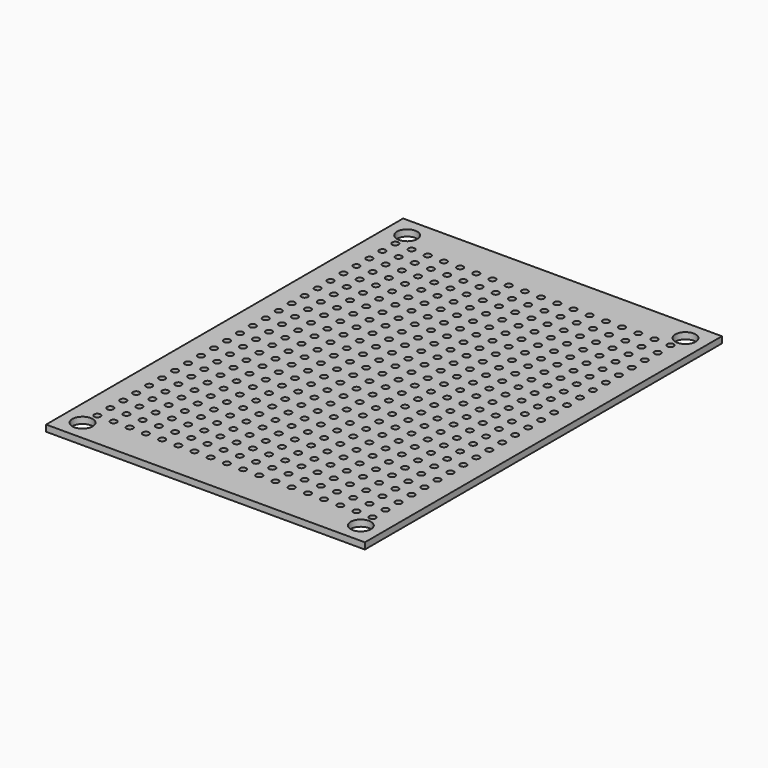
from build123d import *

# Parameters (mm, degrees)
F0_W     = 50
F0_H     = 70
F1_DEPTH = 1
F2_R     = 0.5
F3_DEPTH = 1
F4_R     = 1.5875
F5_DEPTH = 1


with BuildPart() as f1:
    # F0 (on Top) → F1 (new body)
    with BuildSketch(Plane.XY):
        Rectangle(F0_W, F0_H)
    extrude(amount=F1_DEPTH)

    # F2 (on face) → F3 (cut, through all)
    with BuildSketch(Plane.XY.offset(1)):
        with Locations((-21.59, 29.21)):
            Circle(F2_R)
        with Locations((-21.59, 26.67)):
            Circle(F2_R)
        with Locations((-21.59, 24.13)):
            Circle(F2_R)
        with Locations((-21.59, 21.59)):
            Circle(F2_R)
        with Locations((-21.59, 19.05)):
            Circle(F2_R)
        with Locations((-21.59, 16.51)):
            Circle(F2_R)
        with Locations((-21.59, 13.97)):
            Circle(F2_R)
        with Locations((-21.59, 11.43)):
            Circle(F2_R)
        with Locations((-21.59, 8.89)):
            Circle(F2_R)
        with Locations((-21.59, 6.35)):
            Circle(F2_R)
        with Locations((-21.59, 3.81)):
            Circle(F2_R)
        with Locations((-21.59, 1.27)):
            Circle(F2_R)
        with Locations((-21.59, -1.27)):
            Circle(F2_R)
        with Locations((-21.59, -3.81)):
            Circle(F2_R)
        with Locations((-21.59, -6.35)):
            Circle(F2_R)
        with Locations((-21.59, -8.89)):
            Circle(F2_R)
        with Locations((-21.59, -11.43)):
            Circle(F2_R)
        with Locations((-21.59, -13.97)):
            Circle(F2_R)
        with Locations((-21.59, -16.51)):
            Circle(F2_R)
        with Locations((-21.59, -19.05)):
            Circle(F2_R)
        with Locations((-21.59, -21.59)):
            Circle(F2_R)
        with Locations((-21.59, -24.13)):
            Circle(F2_R)
        with Locations((-21.59, -26.67)):
            Circle(F2_R)
        with Locations((-21.59, -29.21)):
            Circle(F2_R)
        with Locations((-19.05, 29.21)):
            Circle(F2_R)
        with Locations((-19.05, 26.67)):
            Circle(F2_R)
        with Locations((-19.05, 24.13)):
            Circle(F2_R)
        with Locations((-19.05, 21.59)):
            Circle(F2_R)
        with Locations((-19.05, 19.05)):
            Circle(F2_R)
        with Locations((-19.05, 16.51)):
            Circle(F2_R)
        with Locations((-19.05, 13.97)):
            Circle(F2_R)
        with Locations((-19.05, 11.43)):
            Circle(F2_R)
        with Locations((-19.05, 8.89)):
            Circle(F2_R)
        with Locations((-19.05, 6.35)):
            Circle(F2_R)
        with Locations((-19.05, 3.81)):
            Circle(F2_R)
        with Locations((-19.05, 1.27)):
            Circle(F2_R)
        with Locations((-19.05, -1.27)):
            Circle(F2_R)
        with Locations((-19.05, -3.81)):
            Circle(F2_R)
        with Locations((-19.05, -6.35)):
            Circle(F2_R)
        with Locations((-19.05, -8.89)):
            Circle(F2_R)
        with Locations((-19.05, -11.43)):
            Circle(F2_R)
        with Locations((-19.05, -13.97)):
            Circle(F2_R)
        with Locations((-19.05, -16.51)):
            Circle(F2_R)
        with Locations((-19.05, -19.05)):
            Circle(F2_R)
        with Locations((-19.05, -21.59)):
            Circle(F2_R)
        with Locations((-19.05, -24.13)):
            Circle(F2_R)
        with Locations((-19.05, -26.67)):
            Circle(F2_R)
        with Locations((-19.05, -29.21)):
            Circle(F2_R)
        with Locations((-16.51, 29.21)):
            Circle(F2_R)
        with Locations((-16.51, 26.67)):
            Circle(F2_R)
        with Locations((-16.51, 24.13)):
            Circle(F2_R)
        with Locations((-16.51, 21.59)):
            Circle(F2_R)
        with Locations((-16.51, 19.05)):
            Circle(F2_R)
        with Locations((-16.51, 16.51)):
            Circle(F2_R)
        with Locations((-16.51, 13.97)):
            Circle(F2_R)
        with Locations((-16.51, 11.43)):
            Circle(F2_R)
        with Locations((-16.51, 8.89)):
            Circle(F2_R)
        with Locations((-16.51, 6.35)):
            Circle(F2_R)
        with Locations((-16.51, 3.81)):
            Circle(F2_R)
        with Locations((-16.51, 1.27)):
            Circle(F2_R)
        with Locations((-16.51, -1.27)):
            Circle(F2_R)
        with Locations((-16.51, -3.81)):
            Circle(F2_R)
        with Locations((-16.51, -6.35)):
            Circle(F2_R)
        with Locations((-16.51, -8.89)):
            Circle(F2_R)
        with Locations((-16.51, -11.43)):
            Circle(F2_R)
        with Locations((-16.51, -13.97)):
            Circle(F2_R)
        with Locations((-16.51, -16.51)):
            Circle(F2_R)
        with Locations((-16.51, -19.05)):
            Circle(F2_R)
        with Locations((-16.51, -21.59)):
            Circle(F2_R)
        with Locations((-16.51, -24.13)):
            Circle(F2_R)
        with Locations((-16.51, -26.67)):
            Circle(F2_R)
        with Locations((-16.51, -29.21)):
            Circle(F2_R)
        with Locations((-13.97, 29.21)):
            Circle(F2_R)
        with Locations((-13.97, 26.67)):
            Circle(F2_R)
        with Locations((-13.97, 24.13)):
            Circle(F2_R)
        with Locations((-13.97, 21.59)):
            Circle(F2_R)
        with Locations((-13.97, 19.05)):
            Circle(F2_R)
        with Locations((-13.97, 16.51)):
            Circle(F2_R)
        with Locations((-13.97, 13.97)):
            Circle(F2_R)
        with Locations((-13.97, 11.43)):
            Circle(F2_R)
        with Locations((-13.97, 8.89)):
            Circle(F2_R)
        with Locations((-13.97, 6.35)):
            Circle(F2_R)
        with Locations((-13.97, 3.81)):
            Circle(F2_R)
        with Locations((-13.97, 1.27)):
            Circle(F2_R)
        with Locations((-13.97, -1.27)):
            Circle(F2_R)
        with Locations((-13.97, -3.81)):
            Circle(F2_R)
        with Locations((-13.97, -6.35)):
            Circle(F2_R)
        with Locations((-13.97, -8.89)):
            Circle(F2_R)
        with Locations((-13.97, -11.43)):
            Circle(F2_R)
        with Locations((-13.97, -13.97)):
            Circle(F2_R)
        with Locations((-13.97, -16.51)):
            Circle(F2_R)
        with Locations((-13.97, -19.05)):
            Circle(F2_R)
        with Locations((-13.97, -21.59)):
            Circle(F2_R)
        with Locations((-13.97, -24.13)):
            Circle(F2_R)
        with Locations((-13.97, -26.67)):
            Circle(F2_R)
        with Locations((-13.97, -29.21)):
            Circle(F2_R)
        with Locations((-11.43, 29.21)):
            Circle(F2_R)
        with Locations((-11.43, 26.67)):
            Circle(F2_R)
        with Locations((-11.43, 24.13)):
            Circle(F2_R)
        with Locations((-11.43, 21.59)):
            Circle(F2_R)
        with Locations((-11.43, 19.05)):
            Circle(F2_R)
        with Locations((-11.43, 16.51)):
            Circle(F2_R)
        with Locations((-11.43, 13.97)):
            Circle(F2_R)
        with Locations((-11.43, 11.43)):
            Circle(F2_R)
        with Locations((-11.43, 8.89)):
            Circle(F2_R)
        with Locations((-11.43, 6.35)):
            Circle(F2_R)
        with Locations((-11.43, 3.81)):
            Circle(F2_R)
        with Locations((-11.43, 1.27)):
            Circle(F2_R)
        with Locations((-11.43, -1.27)):
            Circle(F2_R)
        with Locations((-11.43, -3.81)):
            Circle(F2_R)
        with Locations((-11.43, -6.35)):
            Circle(F2_R)
        with Locations((-11.43, -8.89)):
            Circle(F2_R)
        with Locations((-11.43, -11.43)):
            Circle(F2_R)
        with Locations((-11.43, -13.97)):
            Circle(F2_R)
        with Locations((-11.43, -16.51)):
            Circle(F2_R)
        with Locations((-11.43, -19.05)):
            Circle(F2_R)
        with Locations((-11.43, -21.59)):
            Circle(F2_R)
        with Locations((-11.43, -24.13)):
            Circle(F2_R)
        with Locations((-11.43, -26.67)):
            Circle(F2_R)
        with Locations((-11.43, -29.21)):
            Circle(F2_R)
        with Locations((-8.89, 29.21)):
            Circle(F2_R)
        with Locations((-8.89, 26.67)):
            Circle(F2_R)
        with Locations((-8.89, 24.13)):
            Circle(F2_R)
        with Locations((-8.89, 21.59)):
            Circle(F2_R)
        with Locations((-8.89, 19.05)):
            Circle(F2_R)
        with Locations((-8.89, 16.51)):
            Circle(F2_R)
        with Locations((-8.89, 13.97)):
            Circle(F2_R)
        with Locations((-8.89, 11.43)):
            Circle(F2_R)
        with Locations((-8.89, 8.89)):
            Circle(F2_R)
        with Locations((-8.89, 6.35)):
            Circle(F2_R)
        with Locations((-8.89, 3.81)):
            Circle(F2_R)
        with Locations((-8.89, 1.27)):
            Circle(F2_R)
        with Locations((-8.89, -1.27)):
            Circle(F2_R)
        with Locations((-8.89, -3.81)):
            Circle(F2_R)
        with Locations((-8.89, -6.35)):
            Circle(F2_R)
        with Locations((-8.89, -8.89)):
            Circle(F2_R)
        with Locations((-8.89, -11.43)):
            Circle(F2_R)
        with Locations((-8.89, -13.97)):
            Circle(F2_R)
        with Locations((-8.89, -16.51)):
            Circle(F2_R)
        with Locations((-8.89, -19.05)):
            Circle(F2_R)
        with Locations((-8.89, -21.59)):
            Circle(F2_R)
        with Locations((-8.89, -24.13)):
            Circle(F2_R)
        with Locations((-8.89, -26.67)):
            Circle(F2_R)
        with Locations((-8.89, -29.21)):
            Circle(F2_R)
        with Locations((-6.35, 29.21)):
            Circle(F2_R)
        with Locations((-6.35, 26.67)):
            Circle(F2_R)
        with Locations((-6.35, 24.13)):
            Circle(F2_R)
        with Locations((-6.35, 21.59)):
            Circle(F2_R)
        with Locations((-6.35, 19.05)):
            Circle(F2_R)
        with Locations((-6.35, 16.51)):
            Circle(F2_R)
        with Locations((-6.35, 13.97)):
            Circle(F2_R)
        with Locations((-6.35, 11.43)):
            Circle(F2_R)
        with Locations((-6.35, 8.89)):
            Circle(F2_R)
        with Locations((-6.35, 6.35)):
            Circle(F2_R)
        with Locations((-6.35, 3.81)):
            Circle(F2_R)
        with Locations((-6.35, 1.27)):
            Circle(F2_R)
        with Locations((-6.35, -1.27)):
            Circle(F2_R)
        with Locations((-6.35, -3.81)):
            Circle(F2_R)
        with Locations((-6.35, -6.35)):
            Circle(F2_R)
        with Locations((-6.35, -8.89)):
            Circle(F2_R)
        with Locations((-6.35, -11.43)):
            Circle(F2_R)
        with Locations((-6.35, -13.97)):
            Circle(F2_R)
        with Locations((-6.35, -16.51)):
            Circle(F2_R)
        with Locations((-6.35, -19.05)):
            Circle(F2_R)
        with Locations((-6.35, -21.59)):
            Circle(F2_R)
        with Locations((-6.35, -24.13)):
            Circle(F2_R)
        with Locations((-6.35, -26.67)):
            Circle(F2_R)
        with Locations((-6.35, -29.21)):
            Circle(F2_R)
        with Locations((-3.81, 29.21)):
            Circle(F2_R)
        with Locations((-3.81, 26.67)):
            Circle(F2_R)
        with Locations((-3.81, 24.13)):
            Circle(F2_R)
        with Locations((-3.81, 21.59)):
            Circle(F2_R)
        with Locations((-3.81, 19.05)):
            Circle(F2_R)
        with Locations((-3.81, 16.51)):
            Circle(F2_R)
        with Locations((-3.81, 13.97)):
            Circle(F2_R)
        with Locations((-3.81, 11.43)):
            Circle(F2_R)
        with Locations((-3.81, 8.89)):
            Circle(F2_R)
        with Locations((-3.81, 6.35)):
            Circle(F2_R)
        with Locations((-3.81, 3.81)):
            Circle(F2_R)
        with Locations((-3.81, 1.27)):
            Circle(F2_R)
        with Locations((-3.81, -1.27)):
            Circle(F2_R)
        with Locations((-3.81, -3.81)):
            Circle(F2_R)
        with Locations((-3.81, -6.35)):
            Circle(F2_R)
        with Locations((-3.81, -8.89)):
            Circle(F2_R)
        with Locations((-3.81, -11.43)):
            Circle(F2_R)
        with Locations((-3.81, -13.97)):
            Circle(F2_R)
        with Locations((-3.81, -16.51)):
            Circle(F2_R)
        with Locations((-3.81, -19.05)):
            Circle(F2_R)
        with Locations((-3.81, -21.59)):
            Circle(F2_R)
        with Locations((-3.81, -24.13)):
            Circle(F2_R)
        with Locations((-3.81, -26.67)):
            Circle(F2_R)
        with Locations((-3.81, -29.21)):
            Circle(F2_R)
        with Locations((-1.27, 29.21)):
            Circle(F2_R)
        with Locations((-1.27, 26.67)):
            Circle(F2_R)
        with Locations((-1.27, 24.13)):
            Circle(F2_R)
        with Locations((-1.27, 21.59)):
            Circle(F2_R)
        with Locations((-1.27, 19.05)):
            Circle(F2_R)
        with Locations((-1.27, 16.51)):
            Circle(F2_R)
        with Locations((-1.27, 13.97)):
            Circle(F2_R)
        with Locations((-1.27, 11.43)):
            Circle(F2_R)
        with Locations((-1.27, 8.89)):
            Circle(F2_R)
        with Locations((-1.27, 6.35)):
            Circle(F2_R)
        with Locations((-1.27, 3.81)):
            Circle(F2_R)
        with Locations((-1.27, 1.27)):
            Circle(F2_R)
        with Locations((-1.27, -1.27)):
            Circle(F2_R)
        with Locations((-1.27, -3.81)):
            Circle(F2_R)
        with Locations((-1.27, -6.35)):
            Circle(F2_R)
        with Locations((-1.27, -8.89)):
            Circle(F2_R)
        with Locations((-1.27, -11.43)):
            Circle(F2_R)
        with Locations((-1.27, -13.97)):
            Circle(F2_R)
        with Locations((-1.27, -16.51)):
            Circle(F2_R)
        with Locations((-1.27, -19.05)):
            Circle(F2_R)
        with Locations((-1.27, -21.59)):
            Circle(F2_R)
        with Locations((-1.27, -24.13)):
            Circle(F2_R)
        with Locations((-1.27, -26.67)):
            Circle(F2_R)
        with Locations((-1.27, -29.21)):
            Circle(F2_R)
        with Locations((1.27, 29.21)):
            Circle(F2_R)
        with Locations((1.27, 26.67)):
            Circle(F2_R)
        with Locations((1.27, 24.13)):
            Circle(F2_R)
        with Locations((1.27, 21.59)):
            Circle(F2_R)
        with Locations((1.27, 19.05)):
            Circle(F2_R)
        with Locations((1.27, 16.51)):
            Circle(F2_R)
        with Locations((1.27, 13.97)):
            Circle(F2_R)
        with Locations((1.27, 11.43)):
            Circle(F2_R)
        with Locations((1.27, 8.89)):
            Circle(F2_R)
        with Locations((1.27, 6.35)):
            Circle(F2_R)
        with Locations((1.27, 3.81)):
            Circle(F2_R)
        with Locations((1.27, 1.27)):
            Circle(F2_R)
        with Locations((1.27, -1.27)):
            Circle(F2_R)
        with Locations((1.27, -3.81)):
            Circle(F2_R)
        with Locations((1.27, -6.35)):
            Circle(F2_R)
        with Locations((1.27, -8.89)):
            Circle(F2_R)
        with Locations((1.27, -11.43)):
            Circle(F2_R)
        with Locations((1.27, -13.97)):
            Circle(F2_R)
        with Locations((1.27, -16.51)):
            Circle(F2_R)
        with Locations((1.27, -19.05)):
            Circle(F2_R)
        with Locations((1.27, -21.59)):
            Circle(F2_R)
        with Locations((1.27, -24.13)):
            Circle(F2_R)
        with Locations((1.27, -26.67)):
            Circle(F2_R)
        with Locations((1.27, -29.21)):
            Circle(F2_R)
        with Locations((3.81, 29.21)):
            Circle(F2_R)
        with Locations((3.81, 26.67)):
            Circle(F2_R)
        with Locations((3.81, 24.13)):
            Circle(F2_R)
        with Locations((3.81, 21.59)):
            Circle(F2_R)
        with Locations((3.81, 19.05)):
            Circle(F2_R)
        with Locations((3.81, 16.51)):
            Circle(F2_R)
        with Locations((3.81, 13.97)):
            Circle(F2_R)
        with Locations((3.81, 11.43)):
            Circle(F2_R)
        with Locations((3.81, 8.89)):
            Circle(F2_R)
        with Locations((3.81, 6.35)):
            Circle(F2_R)
        with Locations((3.81, 3.81)):
            Circle(F2_R)
        with Locations((3.81, 1.27)):
            Circle(F2_R)
        with Locations((3.81, -1.27)):
            Circle(F2_R)
        with Locations((3.81, -3.81)):
            Circle(F2_R)
        with Locations((3.81, -6.35)):
            Circle(F2_R)
        with Locations((3.81, -8.89)):
            Circle(F2_R)
        with Locations((3.81, -11.43)):
            Circle(F2_R)
        with Locations((3.81, -13.97)):
            Circle(F2_R)
        with Locations((3.81, -16.51)):
            Circle(F2_R)
        with Locations((3.81, -19.05)):
            Circle(F2_R)
        with Locations((3.81, -21.59)):
            Circle(F2_R)
        with Locations((3.81, -24.13)):
            Circle(F2_R)
        with Locations((3.81, -26.67)):
            Circle(F2_R)
        with Locations((3.81, -29.21)):
            Circle(F2_R)
        with Locations((6.35, 29.21)):
            Circle(F2_R)
        with Locations((6.35, 26.67)):
            Circle(F2_R)
        with Locations((6.35, 24.13)):
            Circle(F2_R)
        with Locations((6.35, 21.59)):
            Circle(F2_R)
        with Locations((6.35, 19.05)):
            Circle(F2_R)
        with Locations((6.35, 16.51)):
            Circle(F2_R)
        with Locations((6.35, 13.97)):
            Circle(F2_R)
        with Locations((6.35, 11.43)):
            Circle(F2_R)
        with Locations((6.35, 8.89)):
            Circle(F2_R)
        with Locations((6.35, 6.35)):
            Circle(F2_R)
        with Locations((6.35, 3.81)):
            Circle(F2_R)
        with Locations((6.35, 1.27)):
            Circle(F2_R)
        with Locations((6.35, -1.27)):
            Circle(F2_R)
        with Locations((6.35, -3.81)):
            Circle(F2_R)
        with Locations((6.35, -6.35)):
            Circle(F2_R)
        with Locations((6.35, -8.89)):
            Circle(F2_R)
        with Locations((6.35, -11.43)):
            Circle(F2_R)
        with Locations((6.35, -13.97)):
            Circle(F2_R)
        with Locations((6.35, -16.51)):
            Circle(F2_R)
        with Locations((6.35, -19.05)):
            Circle(F2_R)
        with Locations((6.35, -21.59)):
            Circle(F2_R)
        with Locations((6.35, -24.13)):
            Circle(F2_R)
        with Locations((6.35, -26.67)):
            Circle(F2_R)
        with Locations((6.35, -29.21)):
            Circle(F2_R)
        with Locations((8.89, 29.21)):
            Circle(F2_R)
        with Locations((8.89, 26.67)):
            Circle(F2_R)
        with Locations((8.89, 24.13)):
            Circle(F2_R)
        with Locations((8.89, 21.59)):
            Circle(F2_R)
        with Locations((8.89, 19.05)):
            Circle(F2_R)
        with Locations((8.89, 16.51)):
            Circle(F2_R)
        with Locations((8.89, 13.97)):
            Circle(F2_R)
        with Locations((8.89, 11.43)):
            Circle(F2_R)
        with Locations((8.89, 8.89)):
            Circle(F2_R)
        with Locations((8.89, 6.35)):
            Circle(F2_R)
        with Locations((8.89, 3.81)):
            Circle(F2_R)
        with Locations((8.89, 1.27)):
            Circle(F2_R)
        with Locations((8.89, -1.27)):
            Circle(F2_R)
        with Locations((8.89, -3.81)):
            Circle(F2_R)
        with Locations((8.89, -6.35)):
            Circle(F2_R)
        with Locations((8.89, -8.89)):
            Circle(F2_R)
        with Locations((8.89, -11.43)):
            Circle(F2_R)
        with Locations((8.89, -13.97)):
            Circle(F2_R)
        with Locations((8.89, -16.51)):
            Circle(F2_R)
        with Locations((8.89, -19.05)):
            Circle(F2_R)
        with Locations((8.89, -21.59)):
            Circle(F2_R)
        with Locations((8.89, -24.13)):
            Circle(F2_R)
        with Locations((8.89, -26.67)):
            Circle(F2_R)
        with Locations((8.89, -29.21)):
            Circle(F2_R)
        with Locations((11.43, 29.21)):
            Circle(F2_R)
        with Locations((11.43, 26.67)):
            Circle(F2_R)
        with Locations((11.43, 24.13)):
            Circle(F2_R)
        with Locations((11.43, 21.59)):
            Circle(F2_R)
        with Locations((11.43, 19.05)):
            Circle(F2_R)
        with Locations((11.43, 16.51)):
            Circle(F2_R)
        with Locations((11.43, 13.97)):
            Circle(F2_R)
        with Locations((11.43, 11.43)):
            Circle(F2_R)
        with Locations((11.43, 8.89)):
            Circle(F2_R)
        with Locations((11.43, 6.35)):
            Circle(F2_R)
        with Locations((11.43, 3.81)):
            Circle(F2_R)
        with Locations((11.43, 1.27)):
            Circle(F2_R)
        with Locations((11.43, -1.27)):
            Circle(F2_R)
        with Locations((11.43, -3.81)):
            Circle(F2_R)
        with Locations((11.43, -6.35)):
            Circle(F2_R)
        with Locations((11.43, -8.89)):
            Circle(F2_R)
        with Locations((11.43, -11.43)):
            Circle(F2_R)
        with Locations((11.43, -13.97)):
            Circle(F2_R)
        with Locations((11.43, -16.51)):
            Circle(F2_R)
        with Locations((11.43, -19.05)):
            Circle(F2_R)
        with Locations((11.43, -21.59)):
            Circle(F2_R)
        with Locations((11.43, -24.13)):
            Circle(F2_R)
        with Locations((11.43, -26.67)):
            Circle(F2_R)
        with Locations((11.43, -29.21)):
            Circle(F2_R)
        with Locations((13.97, 29.21)):
            Circle(F2_R)
        with Locations((13.97, 26.67)):
            Circle(F2_R)
        with Locations((13.97, 24.13)):
            Circle(F2_R)
        with Locations((13.97, 21.59)):
            Circle(F2_R)
        with Locations((13.97, 19.05)):
            Circle(F2_R)
        with Locations((13.97, 16.51)):
            Circle(F2_R)
        with Locations((13.97, 13.97)):
            Circle(F2_R)
        with Locations((13.97, 11.43)):
            Circle(F2_R)
        with Locations((13.97, 8.89)):
            Circle(F2_R)
        with Locations((13.97, 6.35)):
            Circle(F2_R)
        with Locations((13.97, 3.81)):
            Circle(F2_R)
        with Locations((13.97, 1.27)):
            Circle(F2_R)
        with Locations((13.97, -1.27)):
            Circle(F2_R)
        with Locations((13.97, -3.81)):
            Circle(F2_R)
        with Locations((13.97, -6.35)):
            Circle(F2_R)
        with Locations((13.97, -8.89)):
            Circle(F2_R)
        with Locations((13.97, -11.43)):
            Circle(F2_R)
        with Locations((13.97, -13.97)):
            Circle(F2_R)
        with Locations((13.97, -16.51)):
            Circle(F2_R)
        with Locations((13.97, -19.05)):
            Circle(F2_R)
        with Locations((13.97, -21.59)):
            Circle(F2_R)
        with Locations((13.97, -24.13)):
            Circle(F2_R)
        with Locations((13.97, -26.67)):
            Circle(F2_R)
        with Locations((13.97, -29.21)):
            Circle(F2_R)
        with Locations((16.51, 29.21)):
            Circle(F2_R)
        with Locations((16.51, 26.67)):
            Circle(F2_R)
        with Locations((16.51, 24.13)):
            Circle(F2_R)
        with Locations((16.51, 21.59)):
            Circle(F2_R)
        with Locations((16.51, 19.05)):
            Circle(F2_R)
        with Locations((16.51, 16.51)):
            Circle(F2_R)
        with Locations((16.51, 13.97)):
            Circle(F2_R)
        with Locations((16.51, 11.43)):
            Circle(F2_R)
        with Locations((16.51, 8.89)):
            Circle(F2_R)
        with Locations((16.51, 6.35)):
            Circle(F2_R)
        with Locations((16.51, 3.81)):
            Circle(F2_R)
        with Locations((16.51, 1.27)):
            Circle(F2_R)
        with Locations((16.51, -1.27)):
            Circle(F2_R)
        with Locations((16.51, -3.81)):
            Circle(F2_R)
        with Locations((16.51, -6.35)):
            Circle(F2_R)
        with Locations((16.51, -8.89)):
            Circle(F2_R)
        with Locations((16.51, -11.43)):
            Circle(F2_R)
        with Locations((16.51, -13.97)):
            Circle(F2_R)
        with Locations((16.51, -16.51)):
            Circle(F2_R)
        with Locations((16.51, -19.05)):
            Circle(F2_R)
        with Locations((16.51, -21.59)):
            Circle(F2_R)
        with Locations((16.51, -24.13)):
            Circle(F2_R)
        with Locations((16.51, -26.67)):
            Circle(F2_R)
        with Locations((16.51, -29.21)):
            Circle(F2_R)
        with Locations((19.05, 29.21)):
            Circle(F2_R)
        with Locations((19.05, 26.67)):
            Circle(F2_R)
        with Locations((19.05, 24.13)):
            Circle(F2_R)
        with Locations((19.05, 21.59)):
            Circle(F2_R)
        with Locations((19.05, 19.05)):
            Circle(F2_R)
        with Locations((19.05, 16.51)):
            Circle(F2_R)
        with Locations((19.05, 13.97)):
            Circle(F2_R)
        with Locations((19.05, 11.43)):
            Circle(F2_R)
        with Locations((19.05, 8.89)):
            Circle(F2_R)
        with Locations((19.05, 6.35)):
            Circle(F2_R)
        with Locations((19.05, 3.81)):
            Circle(F2_R)
        with Locations((19.05, 1.27)):
            Circle(F2_R)
        with Locations((19.05, -1.27)):
            Circle(F2_R)
        with Locations((19.05, -3.81)):
            Circle(F2_R)
        with Locations((19.05, -6.35)):
            Circle(F2_R)
        with Locations((19.05, -8.89)):
            Circle(F2_R)
        with Locations((19.05, -11.43)):
            Circle(F2_R)
        with Locations((19.05, -13.97)):
            Circle(F2_R)
        with Locations((19.05, -16.51)):
            Circle(F2_R)
        with Locations((19.05, -19.05)):
            Circle(F2_R)
        with Locations((19.05, -21.59)):
            Circle(F2_R)
        with Locations((19.05, -24.13)):
            Circle(F2_R)
        with Locations((19.05, -26.67)):
            Circle(F2_R)
        with Locations((19.05, -29.21)):
            Circle(F2_R)
        with Locations((21.59, 29.21)):
            Circle(F2_R)
        with Locations((21.59, 26.67)):
            Circle(F2_R)
        with Locations((21.59, 24.13)):
            Circle(F2_R)
        with Locations((21.59, 21.59)):
            Circle(F2_R)
        with Locations((21.59, 19.05)):
            Circle(F2_R)
        with Locations((21.59, 16.51)):
            Circle(F2_R)
        with Locations((21.59, 13.97)):
            Circle(F2_R)
        with Locations((21.59, 11.43)):
            Circle(F2_R)
        with Locations((21.59, 8.89)):
            Circle(F2_R)
        with Locations((21.59, 6.35)):
            Circle(F2_R)
        with Locations((21.59, 3.81)):
            Circle(F2_R)
        with Locations((21.59, 1.27)):
            Circle(F2_R)
        with Locations((21.59, -1.27)):
            Circle(F2_R)
        with Locations((21.59, -3.81)):
            Circle(F2_R)
        with Locations((21.59, -6.35)):
            Circle(F2_R)
        with Locations((21.59, -8.89)):
            Circle(F2_R)
        with Locations((21.59, -11.43)):
            Circle(F2_R)
        with Locations((21.59, -13.97)):
            Circle(F2_R)
        with Locations((21.59, -16.51)):
            Circle(F2_R)
        with Locations((21.59, -19.05)):
            Circle(F2_R)
        with Locations((21.59, -21.59)):
            Circle(F2_R)
        with Locations((21.59, -24.13)):
            Circle(F2_R)
        with Locations((21.59, -26.67)):
            Circle(F2_R)
        with Locations((21.59, -29.21)):
            Circle(F2_R)
    extrude(amount=-F3_DEPTH, mode=Mode.SUBTRACT)

    # F4 (on face) → F5 (cut, through all)
    with BuildSketch(Plane.XY.offset(1)):
        with Locations((-21.825, 31.825)):
            Circle(F4_R)
        with Locations((21.825, 31.825)):
            Circle(F4_R)
        with Locations((-21.825, -31.825)):
            Circle(F4_R)
        with Locations((21.825, -31.825)):
            Circle(F4_R)
    extrude(amount=-F5_DEPTH, mode=Mode.SUBTRACT)


solid = f1.part
